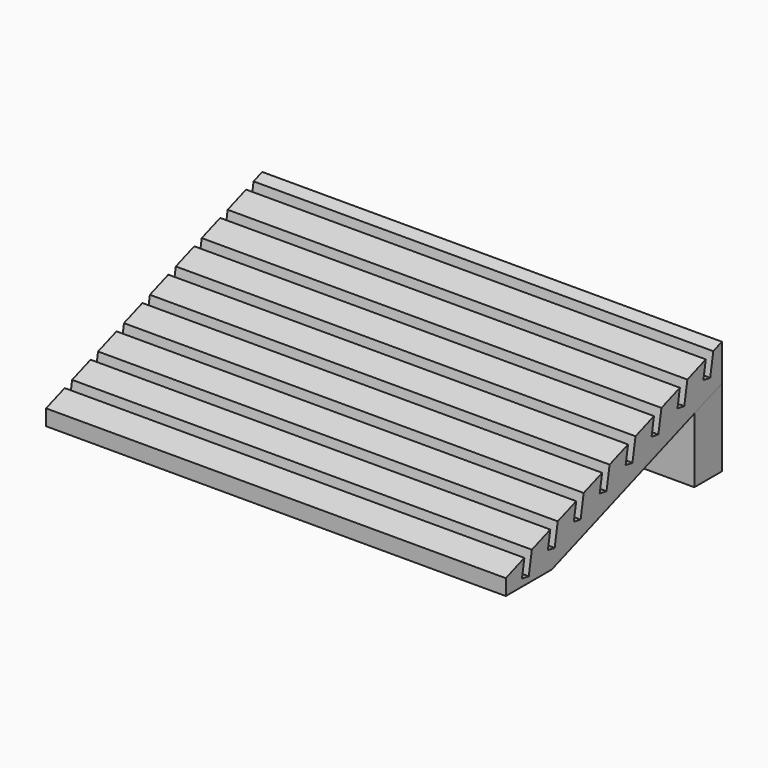
from build123d import *

# Parameters (mm, degrees)
F1_DEPTH = 127
F3_DEPTH = 254


with BuildPart() as f1:
    # F0 (on Right) → F1 (new body, symmetric)
    with BuildSketch(Plane.YZ):
        Polygon((-31.75, 0), (0, 0), (117.511749, 42.770779), (117.511749, 63.043365), (111.544701, 60.871538), (109.413234, 48.783386), (104.723087, 49.610386), (106.377086, 58.990679), (93.643557, 54.356054), (91.512089, 42.267902), (86.821942, 43.094902), (88.475941, 52.475196), (75.742412, 47.84057), (73.610945, 35.752419), (68.920798, 36.579418), (70.574797, 45.959712), (57.841268, 41.325086), (55.709801, 29.236935), (51.019654, 30.063934), (52.673653, 39.444228), (39.940123, 34.809603), (37.808656, 22.721451), (33.118509, 23.548451), (34.772508, 32.928744), (22.038979, 28.294119), (19.907512, 16.205967), (15.217365, 17.032967), (16.871364, 26.413261), (4.137835, 21.778635), (2.006367, 9.690484), (-2.68378, 10.517483), (-1.029781, 19.897777), (-13.76331, 15.263151), (-15.894777, 3.175), (-20.584924, 4.001999), (-18.930925, 13.382293), (-31.75, 8.716532), align=None)
    extrude(amount=F1_DEPTH, both=True)


with BuildPart() as f3:
    # F2 (on face) → F3 (new body, through all)
    with BuildSketch(Plane.YZ.offset(127)):
        Polygon((117.511749, 0), (117.511749, 42.770779), (98.461749, 35.837146), (98.461749, 0), align=None)
    extrude(amount=-F3_DEPTH)


solid = Compound([f1.part, f3.part])
